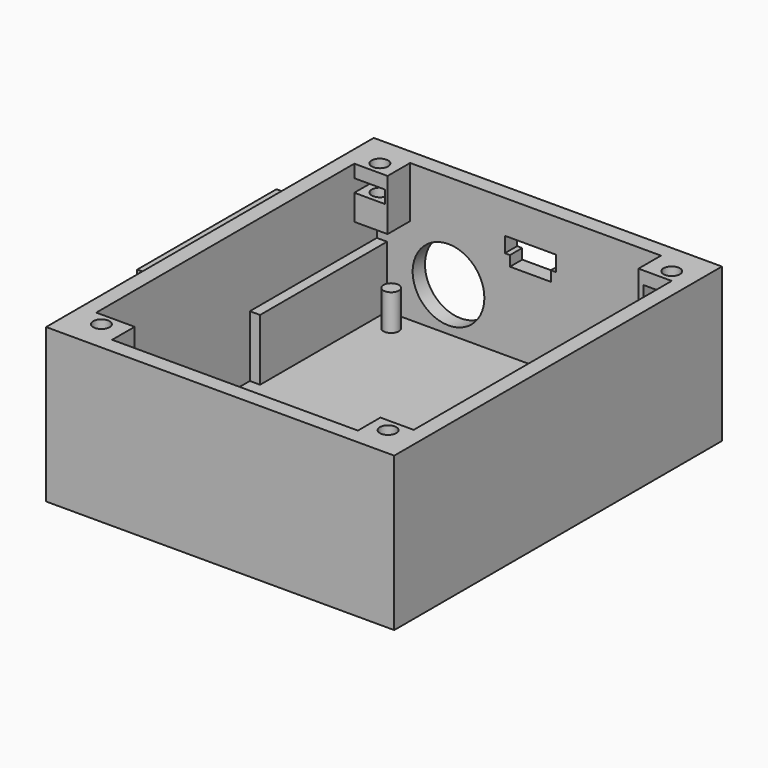
from build123d import *

# Parameters (mm, degrees)
BOX019_W               = 20
BOX019_H               = 30
BOX019_DEPTH           = 15
BOX018_W               = 24
BOX018_H               = 34
BOX018_DEPTH           = 15
CYLINDER011_R          = 1.6
CYLINDER011_DEPTH      = 30
BOX013_W               = 6.5
BOX013_H               = 5
BOX013_DEPTH           = 2.5
BOX014_W               = 8
BOX014_H               = 6
BOX014_DEPTH           = 10
CUT006_PLACEMENT_ANGLE = 180
CYLINDER010_R          = 1.6
CYLINDER010_DEPTH      = 30
BOX012_W               = 6.5
BOX012_H               = 5
BOX012_DEPTH           = 2.5
BOX011_W               = 8
BOX011_H               = 6
BOX011_DEPTH           = 10
CYLINDER009_R          = 1.6
CYLINDER009_DEPTH      = 30
BOX010_W               = 6.5
BOX010_H               = 5
BOX010_DEPTH           = 2.5
BOX009_W               = 8
BOX009_H               = 6
BOX009_DEPTH           = 10
BOX004_W               = 3
BOX004_H               = 80
BOX004_DEPTH           = 30
BOX003_W               = 3
BOX003_H               = 80
BOX003_DEPTH           = 30
BOX001_W               = 65
BOX001_H               = 3
BOX001_DEPTH           = 30
CYLINDER001_R          = 1.5
CYLINDER001_DEPTH      = 10
CYLINDER002_R          = 1.5
CYLINDER002_DEPTH      = 10
CYLINDER003_R          = 1.5
CYLINDER003_DEPTH      = 10
BOX_W                  = 65
BOX_H                  = 78
BOX_DEPTH              = 3
CYLINDER_R             = 1.5
CYLINDER_DEPTH         = 10
BOX008_W               = 10
BOX008_H               = 10
BOX008_DEPTH           = 3
BOX007_W               = 8
BOX007_H               = 10
BOX007_DEPTH           = 3
CYLINDER008_R          = 7
CYLINDER008_DEPTH      = 10
BOX002_W               = 65
BOX002_H               = 3
BOX002_DEPTH           = 30
CYLINDER012_R          = 1.6
CYLINDER012_DEPTH      = 30
BOX015_W               = 6.5
BOX015_H               = 5
BOX015_DEPTH           = 2.5
BOX016_W               = 8
BOX016_H               = 6
BOX016_DEPTH           = 10
CUT007_PLACEMENT_ANGLE = 180


with BuildPart() as cube015:
    # Box019 → Box019 (new body)
    with BuildSketch(Plane(origin=(-17, 70, 2), x_dir=(1, 0, 0), z_dir=(0, 0, 1))):
        with Locations((10, 15)):
            Rectangle(BOX019_W, BOX019_H)
    extrude(amount=BOX019_DEPTH)


with BuildPart() as cut009:
    # Box018 → Box018 (new body)
    with BuildSketch(Plane(origin=(-19, 68, 0), x_dir=(1, 0, 0), z_dir=(0, 0, 1))):
        with Locations((12, 17)):
            Rectangle(BOX018_W, BOX018_H)
    extrude(amount=BOX018_DEPTH)

    # Cut009: cut Cube015
    add(cube015.part, mode=Mode.SUBTRACT)


with BuildPart() as cylinder011:
    # Cylinder011 → Cylinder011 (new body)
    with BuildSketch(Plane(origin=(6, 29, 0), x_dir=(1, 0, 0), z_dir=(0, 0, 1))):
        Circle(CYLINDER011_R)
    extrude(amount=CYLINDER011_DEPTH)


with BuildPart() as cube009:
    # Box013 → Box013 (new body)
    with BuildSketch(Plane(origin=(3, 27, 20), x_dir=(1, 0, 0), z_dir=(0, 0, 1))):
        with Locations((3.25, 2.5)):
            Rectangle(BOX013_W, BOX013_H)
    extrude(amount=BOX013_DEPTH)


with BuildPart() as cut006:
    # Box014 → Box014 (new body)
    with BuildSketch(Plane(origin=(2.5, 25.5, 15), x_dir=(1, 0, 0), z_dir=(0, 0, 1))):
        with Locations((4, 3)):
            Rectangle(BOX014_W, BOX014_H)
    extrude(amount=BOX014_DEPTH)

    # Cut005: cut Cube009
    add(cube009.part, mode=Mode.SUBTRACT)

    # Cut006: cut Cylinder011
    add(cylinder011.part, mode=Mode.SUBTRACT)


with BuildPart() as cut006_1:
    # Cut006 placement: moved
    add(cut006.part.moved(Location((69, 125, 5))).rotate(Axis((69, 125, 5), (0, 0, 1)), CUT006_PLACEMENT_ANGLE))


with BuildPart() as cylinder010:
    # Cylinder010 → Cylinder010 (new body)
    with BuildSketch(Plane(origin=(6, 29, 0), x_dir=(1, 0, 0), z_dir=(0, 0, 1))):
        Circle(CYLINDER010_R)
    extrude(amount=CYLINDER010_DEPTH)


with BuildPart() as cube008:
    # Box012 → Box012 (new body)
    with BuildSketch(Plane(origin=(3, 27, 20), x_dir=(1, 0, 0), z_dir=(0, 0, 1))):
        with Locations((3.25, 2.5)):
            Rectangle(BOX012_W, BOX012_H)
    extrude(amount=BOX012_DEPTH)


with BuildPart() as cut003:
    # Box011 → Box011 (new body)
    with BuildSketch(Plane(origin=(2.5, 25.5, 15), x_dir=(1, 0, 0), z_dir=(0, 0, 1))):
        with Locations((4, 3)):
            Rectangle(BOX011_W, BOX011_H)
    extrude(amount=BOX011_DEPTH)

    # Cut004: cut Cube008
    add(cube008.part, mode=Mode.SUBTRACT)

    # Cut003: cut Cylinder010
    add(cylinder010.part, mode=Mode.SUBTRACT)


with BuildPart() as cut003_1:
    # Cut003 placement: moved
    add(cut003.part.moved(Location((56, -1, 5))))


with BuildPart() as cylinder:
    # Cylinder009 → Cylinder009 (new body)
    with BuildSketch(Plane(origin=(6, 29, 0), x_dir=(1, 0, 0), z_dir=(0, 0, 1))):
        Circle(CYLINDER009_R)
    extrude(amount=CYLINDER009_DEPTH)


with BuildPart() as cube006:
    # Box010 → Box010 (new body)
    with BuildSketch(Plane(origin=(3, 27, 20), x_dir=(1, 0, 0), z_dir=(0, 0, 1))):
        with Locations((3.25, 2.5)):
            Rectangle(BOX010_W, BOX010_H)
    extrude(amount=BOX010_DEPTH)


with BuildPart() as cut002:
    # Box009 → Box009 (new body)
    with BuildSketch(Plane(origin=(2.5, 25.5, 15), x_dir=(1, 0, 0), z_dir=(0, 0, 1))):
        with Locations((4, 3)):
            Rectangle(BOX009_W, BOX009_H)
    extrude(amount=BOX009_DEPTH)

    # Cut001: cut Cube006
    add(cube006.part, mode=Mode.SUBTRACT)

    # Cut002: cut Cylinder
    add(cylinder.part, mode=Mode.SUBTRACT)


with BuildPart() as cut002_1:
    # Cut002 placement: moved
    add(cut002.part.moved(Location((0, -1, 5))))


with BuildPart() as cube004:
    # Box004 → Box004 (new body)
    with BuildSketch(Plane(origin=(65, 22, 0), x_dir=(1, 0, 0), z_dir=(0, 0, 1))):
        with Locations((1.5, 40)):
            Rectangle(BOX004_W, BOX004_H)
    extrude(amount=BOX004_DEPTH)


with BuildPart() as cube003:
    # Box003 → Box003 (new body)
    with BuildSketch(Plane(origin=(0, 22, 0), x_dir=(1, 0, 0), z_dir=(0, 0, 1))):
        with Locations((1.5, 40)):
            Rectangle(BOX003_W, BOX003_H)
    extrude(amount=BOX003_DEPTH)


with BuildPart() as cube001:
    # Box001 → Box001 (new body)
    with BuildSketch(Plane(origin=(0, 22, 0), x_dir=(1, 0, 0), z_dir=(0, 0, 1))):
        with Locations((32.5, 1.5)):
            Rectangle(BOX001_W, BOX001_H)
    extrude(amount=BOX001_DEPTH)


with BuildPart() as cilindro001:
    # Cylinder001 → Cylinder001 (new body)
    with BuildSketch(Plane(origin=(42, 43, 0), x_dir=(1, 0, 0), z_dir=(0, 0, 1))):
        Circle(CYLINDER001_R)
    extrude(amount=CYLINDER001_DEPTH)


with BuildPart() as cilindro002:
    # Cylinder002 → Cylinder002 (new body)
    with BuildSketch(Plane(origin=(57.5, 94, 0), x_dir=(1, 0, 0), z_dir=(0, 0, 1))):
        Circle(CYLINDER002_R)
    extrude(amount=CYLINDER002_DEPTH)


with BuildPart() as cilindro003:
    # Cylinder003 → Cylinder003 (new body)
    with BuildSketch(Plane(origin=(9, 95, 0), x_dir=(1, 0, 0), z_dir=(0, 0, 1))):
        Circle(CYLINDER003_R)
    extrude(amount=CYLINDER003_DEPTH)


with BuildPart() as cube:
    # Box → Box (new body)
    with BuildSketch(Plane(origin=(0, 22, 0), x_dir=(1, 0, 0), z_dir=(0, 0, 1))):
        with Locations((32.5, 39)):
            Rectangle(BOX_W, BOX_H)
    extrude(amount=BOX_DEPTH)


with BuildPart() as fusion:
    # Cylinder → Cylinder (new body)
    with BuildSketch(Plane(origin=(14, 43, 0), x_dir=(1, 0, 0), z_dir=(0, 0, 1))):
        Circle(CYLINDER_R)
    extrude(amount=CYLINDER_DEPTH)

    # Fusion: union Cilindro001, Cilindro002, Cilindro003, Cube
    add(cilindro001.part)
    add(cilindro002.part)
    add(cilindro003.part)
    add(cube.part)


with BuildPart() as cubo008:
    # Box008 → Box008 (new body)
    with BuildSketch(Plane(origin=(28, 96, 20), x_dir=(1, 0, 0), z_dir=(0, 0, 1))):
        with Locations((5, 5)):
            Rectangle(BOX008_W, BOX008_H)
    extrude(amount=BOX008_DEPTH)


with BuildPart() as fusion001006:
    # Box007 → Box007 (new body)
    with BuildSketch(Plane(origin=(29, 96, 18), x_dir=(1, 0, 0), z_dir=(0, 0, 1))):
        with Locations((4, 5)):
            Rectangle(BOX007_W, BOX007_H)
    extrude(amount=BOX007_DEPTH)

    # Fusion001006: union Cubo008
    add(cubo008.part)


with BuildPart() as fusion001006_1:
    # Fusion001006 placement: moved
    add(fusion001006.part.moved(Location((0, 0, 1))))


with BuildPart() as fusion001005:
    # Cylinder008 → Cylinder008 (new body)
    with BuildSketch(Plane(origin=(17, 106, 12), x_dir=(1, 0, 0), z_dir=(0, -1, 0))):
        Circle(CYLINDER008_R)
    extrude(amount=CYLINDER008_DEPTH)

    # Fusion001005: union Fusion001006
    add(fusion001006_1.part)


with BuildPart() as fusion001005_1:
    # Fusion001005 placement: moved
    add(fusion001005.part.moved(Location((0, 1, -0.5))))


with BuildPart() as caja:
    # Box002 → Box002 (new body)
    with BuildSketch(Plane(origin=(0, 99, 0), x_dir=(1, 0, 0), z_dir=(0, 0, 1))):
        with Locations((32.5, 1.5)):
            Rectangle(BOX002_W, BOX002_H)
    extrude(amount=BOX002_DEPTH)

    # Cut: cut Fusion001005
    add(fusion001005_1.part, mode=Mode.SUBTRACT)

    # Fusion001007: union Cube004, Cube003, Cube001, Fusion
    add(cube004.part)
    add(cube003.part)
    add(cube001.part)
    add(fusion.part)


with BuildPart() as cylinder012:
    # Cylinder012 → Cylinder012 (new body)
    with BuildSketch(Plane(origin=(6, 29, 0), x_dir=(1, 0, 0), z_dir=(0, 0, 1))):
        Circle(CYLINDER012_R)
    extrude(amount=CYLINDER012_DEPTH)


with BuildPart() as cube011:
    # Box015 → Box015 (new body)
    with BuildSketch(Plane(origin=(3, 27, 20), x_dir=(1, 0, 0), z_dir=(0, 0, 1))):
        with Locations((3.25, 2.5)):
            Rectangle(BOX015_W, BOX015_H)
    extrude(amount=BOX015_DEPTH)


with BuildPart() as fusion001009:
    # Box016 → Box016 (new body)
    with BuildSketch(Plane(origin=(2.5, 25.5, 15), x_dir=(1, 0, 0), z_dir=(0, 0, 1))):
        with Locations((4, 3)):
            Rectangle(BOX016_W, BOX016_H)
    extrude(amount=BOX016_DEPTH)

    # Cut008: cut Cube011
    add(cube011.part, mode=Mode.SUBTRACT)

    # Cut007: cut Cylinder012
    add(cylinder012.part, mode=Mode.SUBTRACT)


with BuildPart() as fusion001009_1:
    # Cut007 placement: moved
    add(fusion001009.part.moved(Location((12, 125, 5))).rotate(Axis((12, 125, 5), (0, 0, 1)), CUT007_PLACEMENT_ANGLE))

    # Fusion001008: union Cut006, Cut003, Cut002, caja
    add(cut006_1.part)
    add(cut003_1.part)
    add(cut002_1.part)
    add(caja.part)

    # Fusion001009: union Cut009
    add(cut009.part)


solid = fusion001009_1.part
